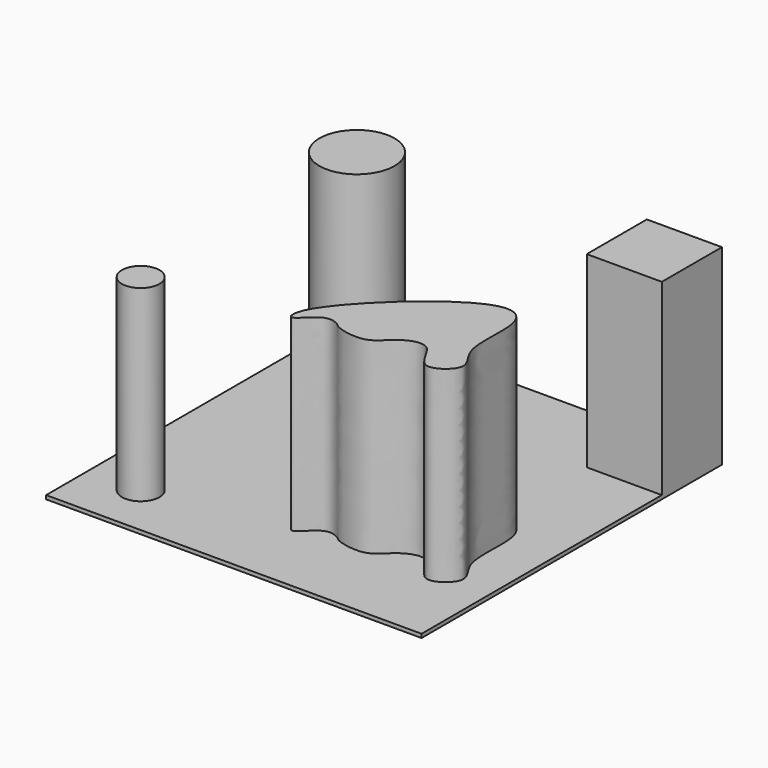
from build123d import *

# Parameters (mm, degrees)
F0_W     = 50
F0_H     = 50
F1_DEPTH = 0.5
F2_R     = 5
F2_W     = 10
F2_H     = 10.000002239
F2_R_2   = 2.5
F3_DEPTH = 25


with BuildPart() as f1:
    # F0 (on Top) → F1 (new body)
    with BuildSketch(Plane.XY):
        Rectangle(F0_W, F0_H)
    extrude(amount=F1_DEPTH)

    # F2 (on face) → F3 (join)
    with BuildSketch(Plane.XY.offset(0.5)):
        with Locations((-18, 18)):
            Circle(F2_R)
        with Locations((20, 19.9999988805)):
            Rectangle(F2_W, F2_H)
        with BuildLine():
            add(Edge.make_bspline(
                [(0, -13.1932897493), (1.7675607873, -9.268906055), (14.1193443546, 2.1864196116), (19.8543764902, -1.0456712596), (17.9335084859, -9.7188399237), (22.1470584778, -12.7633005543), (16.9439665267, -16.6581599683), (15.681789699, -10.6085168487), (11.3733273356, -12.082830511), (9.5112615625, -15.11923087), (5.0997315264, -14.144405839), (4.6785881151, -13.4767863892), (2.41785148, -12.5113937672), (-0.2757159397, -16.4006083207), (-0.5714755138, -14.4620943098), (0, -13.1932897493)],
                knots=[0, 0, 0, 0, 0.168792977, 0.2457246999, 0.3523518097, 0.4266015228, 0.4986837768, 0.5757660856, 0.6448299888, 0.7156471455, 0.7892051841, 0.8234498893, 0.8764823849, 0.9454270235, 1, 1, 1, 1], degree=3))
        make_face()
        with Locations((-18, -18)):
            Circle(F2_R_2)
    extrude(amount=F3_DEPTH)


solid = f1.part
